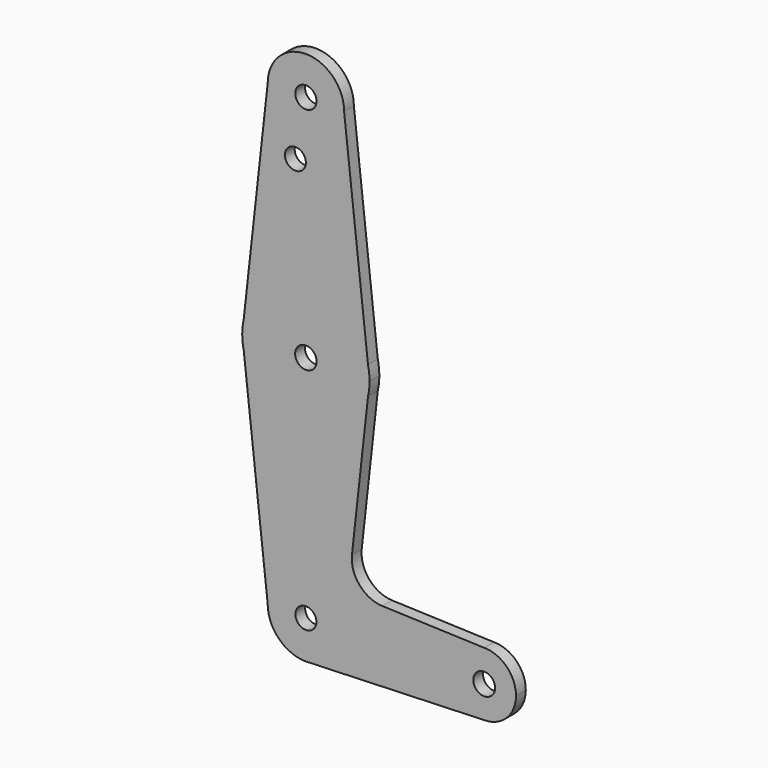
from build123d import *

# Parameters (mm, degrees)
F0_R     = 2.6475591558
F0_R_2   = 2.6123772841
F0_R_3   = 2.678697579
F0_R_4   = 2.6149402964
F0_R_5   = 2.7160891625
F1_DEPTH = 3.048


with BuildPart() as f1:
    # F0 (on Front) → F1 (new body)
    with BuildSketch(Plane.XZ):
        with BuildLine():
            ThreePointArc((-9.525, 114.3), (0, 104.775), (9.525, 114.3))
            ThreePointArc((9.525, 114.3), (0, 123.825), (-9.525, 114.3))
        make_face()
        with Locations((0, 114.3)):
            Circle(F0_R, mode=Mode.SUBTRACT)
        with BuildLine():
            Line((15.487804878, 60.6347560976), (9.525, 114.3))
            ThreePointArc((9.525, 114.3), (0, 104.775), (-9.525, 114.3))
            Line((-9.525, 114.3), (-15.487804878, 60.6347560976))
            ThreePointArc((-15.487804878, 60.6347560976), (0, 73.025), (15.487804878, 60.6347560976))
        make_face()
        with Locations((-2.6123772841, 99.9474748969)):
            Circle(F0_R_2, mode=Mode.SUBTRACT)
        with BuildLine():
            Line((15.875, 57.15), (15.487804878, 60.6347560976))
            ThreePointArc((15.487804878, 60.6347560976), (0, 73.025), (-15.487804878, 60.6347560976))
            Line((-15.487804878, 60.6347560976), (-15.875, 57.15))
            Line((-15.875, 57.15), (-15.487804878, 53.6652439024))
            ThreePointArc((-15.487804878, 53.6652439024), (0, 41.275), (15.487804878, 53.6652439024))
            Line((15.487804878, 53.6652439024), (15.875, 57.15))
        make_face()
        with Locations((0, 57.15)):
            Circle(F0_R_3, mode=Mode.SUBTRACT)
        with BuildLine():
            ThreePointArc((15.875, 57.15), (15.7779042879, 58.9031004764), (15.487804878, 60.6347560976))
            Line((15.487804878, 60.6347560976), (15.875, 57.15))
        make_face()
        with BuildLine():
            Line((-15.875, 57.15), (-15.487804878, 60.6347560976))
            ThreePointArc((-15.487804878, 60.6347560976), (-15.7779042879, 58.9031004764), (-15.875, 57.15))
        make_face()
        with BuildLine():
            ThreePointArc((15.487804878, 53.6652439024), (15.7779042879, 55.3968995236), (15.875, 57.15))
            Line((15.875, 57.15), (15.487804878, 53.6652439024))
        make_face()
        with BuildLine():
            Line((-15.487804878, 53.6652439024), (-15.875, 57.15))
            ThreePointArc((-15.875, 57.15), (-15.7779042879, 55.3968995236), (-15.487804878, 53.6652439024))
        make_face()
        with BuildLine():
            Line((11.487860175, 17.6657415748), (15.487804878, 53.6652439024))
            ThreePointArc((15.487804878, 53.6652439024), (0, 41.275), (-15.487804878, 53.6652439024))
            Line((-15.487804878, 53.6652439024), (-9.525, 0))
            ThreePointArc((-9.525, 0), (0, 9.525), (9.525, 0))
            ThreePointArc((9.525, 0), (6.9712901065, -6.4905114784), (0.6794904459, -9.5007324841))
            Line((0.6794904459, -9.5007324841), (44.45, -7.9375))
            ThreePointArc((44.45, -7.9375), (36.5125, 0), (44.45, 7.9375))
            Line((44.45, 7.9375), (19.1056798365, 8.8426542916))
            ThreePointArc((19.1056798365, 8.8426542916), (13.3718253887, 11.5922081466), (11.487860175, 17.6657415748))
        make_face()
        with BuildLine():
            ThreePointArc((9.525, 0), (0, 9.525), (-9.525, 0))
            ThreePointArc((-9.525, 0), (-6.7351920908, -6.7351920908), (0, -9.525))
            Line((0, -9.525), (0.6794904459, -9.5007324841))
            ThreePointArc((0.6794904459, -9.5007324841), (6.9712901065, -6.4905114784), (9.525, 0))
        make_face()
        Circle(F0_R_4, mode=Mode.SUBTRACT)
        with BuildLine():
            Line((0.6794904459, -9.5007324841), (0, -9.525))
            ThreePointArc((0, -9.525), (0.3399618281, -9.5189311877), (0.6794904459, -9.5007324841))
        make_face()
        with BuildLine():
            ThreePointArc((52.3875, 0), (50.0626600757, 5.6126600757), (44.45, 7.9375))
            ThreePointArc((44.45, 7.9375), (36.5125, 0), (44.45, -7.9375))
            ThreePointArc((44.45, -7.9375), (50.0626600757, -5.6126600757), (52.3875, 0))
        make_face()
        with Locations((44.45, 0)):
            Circle(F0_R_5, mode=Mode.SUBTRACT)
    extrude(amount=F1_DEPTH)


solid = f1.part
